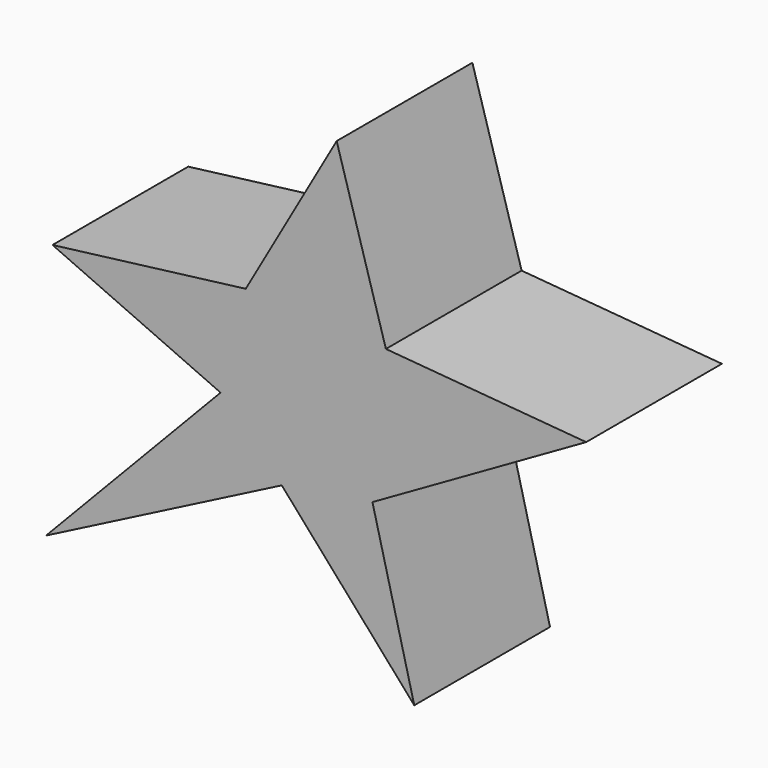
from build123d import *

# Parameters (mm, degrees)
F1_DEPTH = 254


with BuildPart() as f1:
    # F0 (on Front) → F1 (new body)
    with BuildSketch(Plane.XZ):
        with BuildLine():
            ThreePointArc((-162.177067, 149.106595), (-54.889921, 188.841494), (47.638746, 138.074711))
            Line((47.638746, 138.074711), (-26.05729, 388.13132))
            Line((-26.05729, 388.13132), (-162.177067, 149.106595))
        make_face()
        with BuildLine():
            Line((-461.089432, -273.319095), (-108.239205, -92.380688))
            ThreePointArc((-108.239205, -92.380688), (-165.032116, -57.088534), (-199.844044, 0))
            Line((-199.844044, 0), (-461.089432, -273.319095))
        make_face()
        with BuildLine():
            ThreePointArc((47.638746, 138.074711), (73.107329, 94.392598), (81.95847, 44.608735))
            ThreePointArc((81.95847, 44.608735), (21.937886, -72.589023), (-108.239205, -92.380688))
            Line((-108.239205, -92.380688), (90.14336, -317.783058))
            Line((90.14336, -317.783058), (27.508762, -70.308436))
            Line((27.508762, -70.308436), (347.513378, 112.797849))
            Line((347.513378, 112.797849), (47.638746, 138.074711))
        make_face()
        with BuildLine():
            ThreePointArc((-108.239205, -92.380688), (21.937886, -72.589023), (81.95847, 44.608735))
            ThreePointArc((81.95847, 44.608735), (73.107329, 94.392598), (47.638746, 138.074711))
            ThreePointArc((47.638746, 138.074711), (-54.889921, 188.841494), (-162.177067, 149.106595))
            ThreePointArc((-162.177067, 149.106595), (-202.506455, 79.983544), (-199.844044, 0))
            ThreePointArc((-199.844044, 0), (-165.032116, -57.088534), (-108.239205, -92.380688))
        make_face()
        with BuildLine():
            ThreePointArc((-199.844044, 0), (-202.506455, 79.983544), (-162.177067, 149.106595))
            Line((-162.177067, 149.106595), (-451.486111, 112.797849))
            Line((-451.486111, 112.797849), (-199.844044, 0))
        make_face()
    extrude(amount=F1_DEPTH)


solid = f1.part
